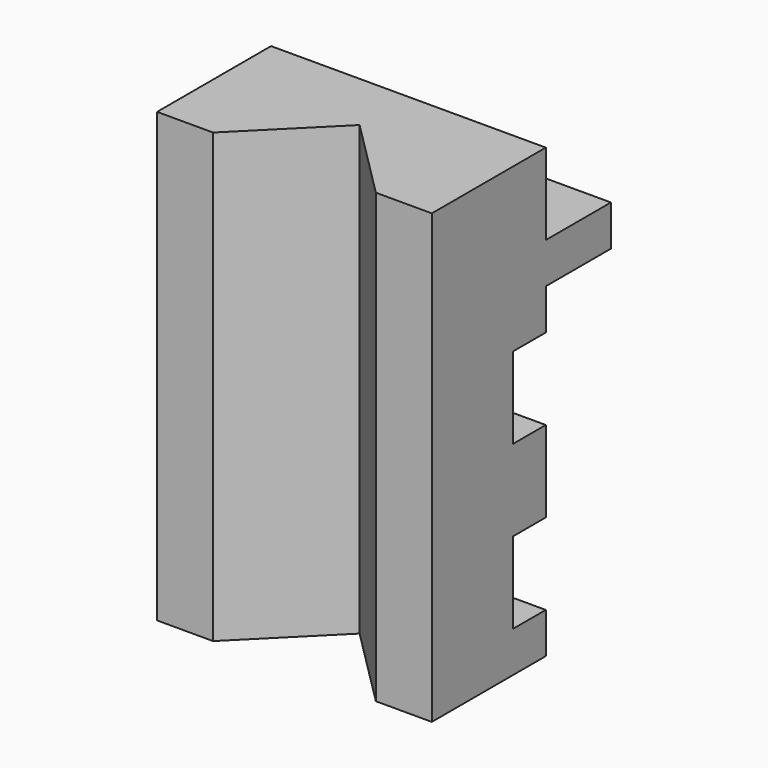
from build123d import *

# Parameters (mm, degrees)
F1_DEPTH = 7
F2_W     = 13.5
F2_H     = 2
F3_DEPTH = 4
F5_DEPTH = 22
F6_W     = 13.5
F6_H     = 4
F7_DEPTH = 2


with BuildPart() as f1:
    # F0 (on Front) → F1 (new body)
    with BuildSketch(Plane.XZ):
        Polygon((6.75, -11), (6.75, -9), (6.75, 9), (6.75, 11), (-6.75, 11), (-6.75, 9), (-6.75, -9), (-6.75, -11), align=None)
    extrude(amount=F1_DEPTH)

    # F2 (on face) → F3 (join)
    with BuildSketch(Plane(origin=(0, 0, 0), x_dir=(-1, 0, 0), z_dir=(0, 1, 0))):
        with Locations((0, 6)):
            Rectangle(F2_W, F2_H)
    extrude(amount=F3_DEPTH)

    # F4 (on face) → F5 (cut, through all)
    with BuildSketch(Plane.XY.offset(11)):
        Polygon((4, -7), (0, -3), (-4, -7), align=None)
    extrude(amount=-F5_DEPTH, mode=Mode.SUBTRACT)

    # F6 (on face) → F7 (cut)
    with BuildSketch(Plane(origin=(0, 0, 0), x_dir=(-1, 0, 0), z_dir=(0, 1, 0))):
        with Locations((0, 1)):
            Rectangle(F6_W, F6_H)
        with Locations((0, -7)):
            Rectangle(F6_W, F6_H)
    extrude(amount=-F7_DEPTH, mode=Mode.SUBTRACT)


solid = f1.part
